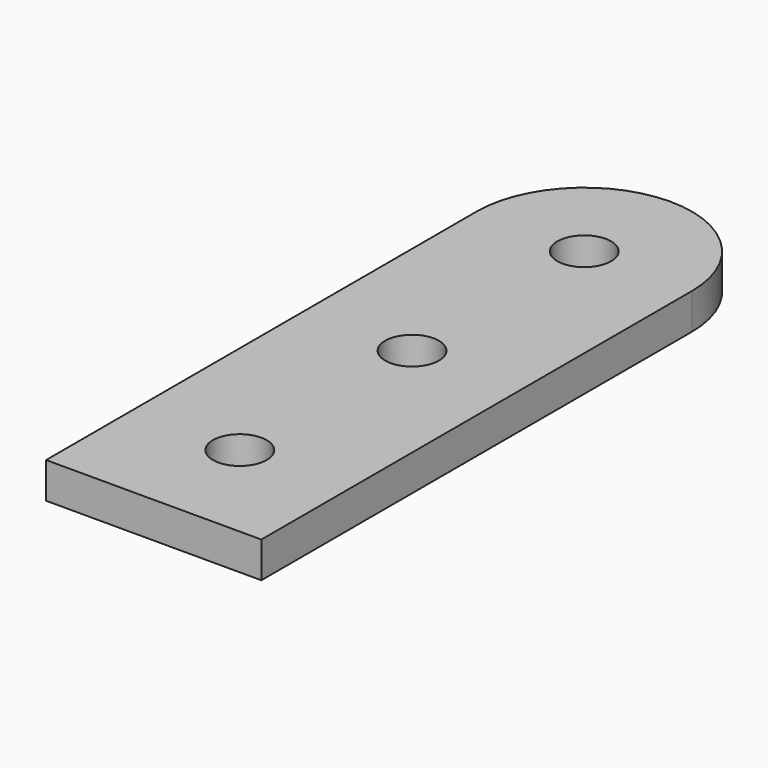
from build123d import *

# Parameters (mm, degrees)
F0_W     = 38.1
F0_H     = 95.25
F1_DEPTH = 6.35
F3_D     = 9.525


with BuildPart() as f1:
    # F0 (on Top) → F1 (new body)
    with BuildSketch(Plane.XY):
        with Locations((19.05, 47.625)):
            Rectangle(F0_W, F0_H)
        with BuildLine():
            ThreePointArc((38.1, 95.25), (19.05, 114.3), (0, 95.25))
            Line((0, 95.25), (38.1, 95.25))
        make_face()
    extrude(amount=F1_DEPTH)

    # F3 (through all)
    with Locations(Plane.XY.offset(6.35)):
        with Locations((19.05, 95.25), (19.05, 57.15), (19.05, 19.05)):
            Hole(F3_D / 2)


solid = f1.part
